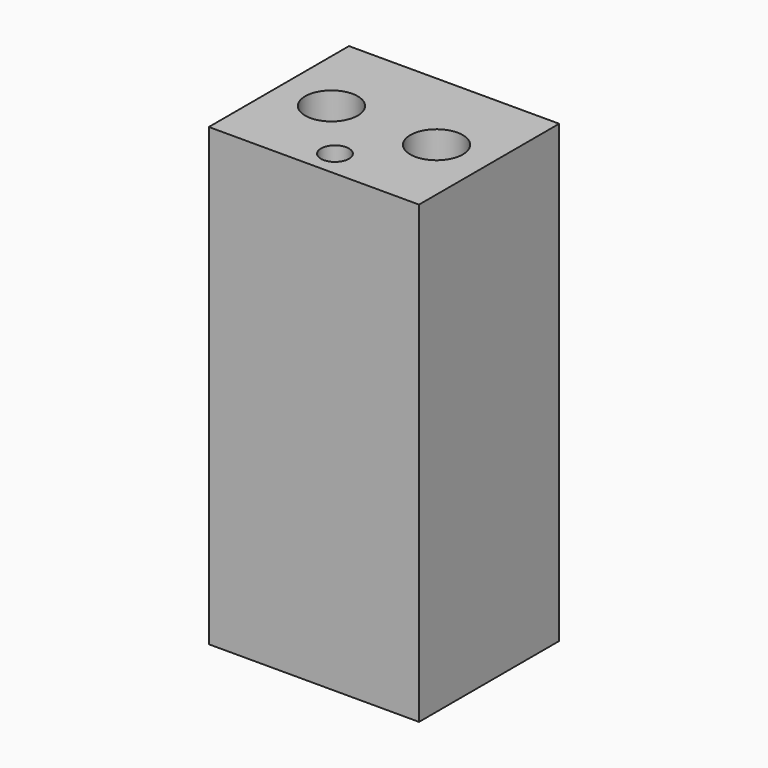
from build123d import *

# Parameters (mm, degrees)
F0_W           = 60
F0_H           = 130
F1_DEPTH       = 25
F2_R           = 7.5
F2_R_2         = 4
F3_DEPTH       = 130.001
F5_D           = 6
F5_DEPTH       = 10
F5_CBORE_D     = 9
F5_CBORE_DEPTH = 2
F5_TIP         = 1.8025818571


with BuildPart() as f1:
    # F0 (on Front) → F1 (new body, symmetric)
    with BuildSketch(Plane.XZ):
        Rectangle(F0_W, F0_H)
    extrude(amount=F1_DEPTH, both=True)

    # F2 (on face) → F3 (cut, through all)
    with BuildSketch(Plane.XY.offset(65)):
        with Locations((-15, 0)):
            Circle(F2_R)
        with Locations((15, 0)):
            Circle(F2_R)
        with Locations((0, -17.5)):
            Circle(F2_R_2)
    extrude(amount=-F3_DEPTH, mode=Mode.SUBTRACT)

    # F5
    with Locations(Plane(origin=(0, 25, 0), x_dir=(-1, 0, 0), z_dir=(0, 1, 0))):
        with Locations((-15, 45), (15, 45), (15, -45), (-15, -45)):
            CounterBoreHole(F5_D / 2, F5_CBORE_D / 2, F5_CBORE_DEPTH, depth=F5_DEPTH)
            with Locations((0, 0, -(F5_DEPTH + F5_TIP / 2))):  # 118° drill point
                Cone(0, F5_D / 2, F5_TIP, mode=Mode.SUBTRACT)


solid = f1.part
